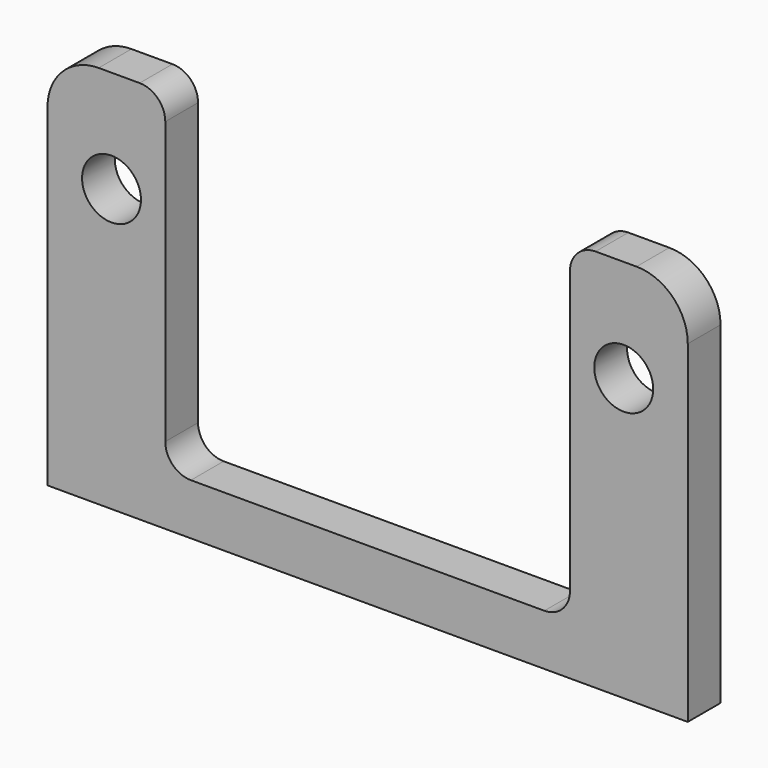
from build123d import *

# Parameters (mm, degrees)
PAD011_DEPTH    = 1.6
SKETCH027_R     = 1.15
POCKET013_DEPTH = 1.601
POCKET014_DEPTH = 1.601


with BuildPart() as part:
    # Sketch026 → Pad011 (new body)
    with BuildSketch(Plane.XZ):
        with BuildLine():
            Line((-12.5, 0), (12.5, 0))
            Line((12.5, 0), (12.5, 13))
            ThreePointArc((12.5, 13), (11.914214, 14.414214), (10.5, 15))
            Line((10.5, 15), (6.75, 15))
            ThreePointArc((6.75, 15), (6.396447, 14.853553), (6.25, 14.5))
            Line((6.25, 14.5), (6.25, 13.5))
            ThreePointArc((5.75, 13), (6.103553, 13.146447), (6.25, 13.5))
            Line((5.75, 13), (-5.75, 13))
            ThreePointArc((-6.25, 13.5), (-6.103553, 13.146447), (-5.75, 13))
            Line((-6.25, 13.5), (-6.25, 14.5))
            ThreePointArc((-6.25, 14.5), (-6.396447, 14.853553), (-6.75, 15))
            Line((-10.5, 15), (-6.75, 15))
            ThreePointArc((-10.5, 15), (-11.914214, 14.414214), (-12.5, 13))
            Line((-12.5, 13), (-12.5, 0))
        make_face()
    extrude(amount=PAD011_DEPTH)

    # Sketch027 → Pocket013 (cut, through all)
    with BuildSketch(Plane.XZ):
        with Locations((-10, 11)):
            Circle(SKETCH027_R)
        with Locations((10, 11)):
            Circle(SKETCH027_R)
    extrude(amount=POCKET013_DEPTH, mode=Mode.SUBTRACT)

    # Sketch028 → Pocket014 (cut, through all)
    with BuildSketch(Plane.XZ):
        with BuildLine():
            Line((7.9, 14), (7.9, 3))
            ThreePointArc((6.9, 2), (7.607107, 2.292893), (7.9, 3))
            Line((6.9, 2), (-6.9, 2))
            ThreePointArc((-7.9, 3), (-7.607107, 2.292893), (-6.9, 2))
            Line((-7.9, 3), (-7.9, 14))
            ThreePointArc((-7.9, 14), (-8.192893, 14.707107), (-8.9, 15))
            Line((-8.9, 15), (-12.5, 15))
            Line((-12.5, 15), (-12.5, 17))
            Line((-12.5, 17), (12.5, 17))
            Line((12.5, 17), (12.5, 15))
            Line((8.9, 15), (12.5, 15))
            ThreePointArc((8.9, 15), (8.192893, 14.707107), (7.9, 14))
        make_face()
    extrude(amount=POCKET014_DEPTH, mode=Mode.SUBTRACT)


solid = part.part
